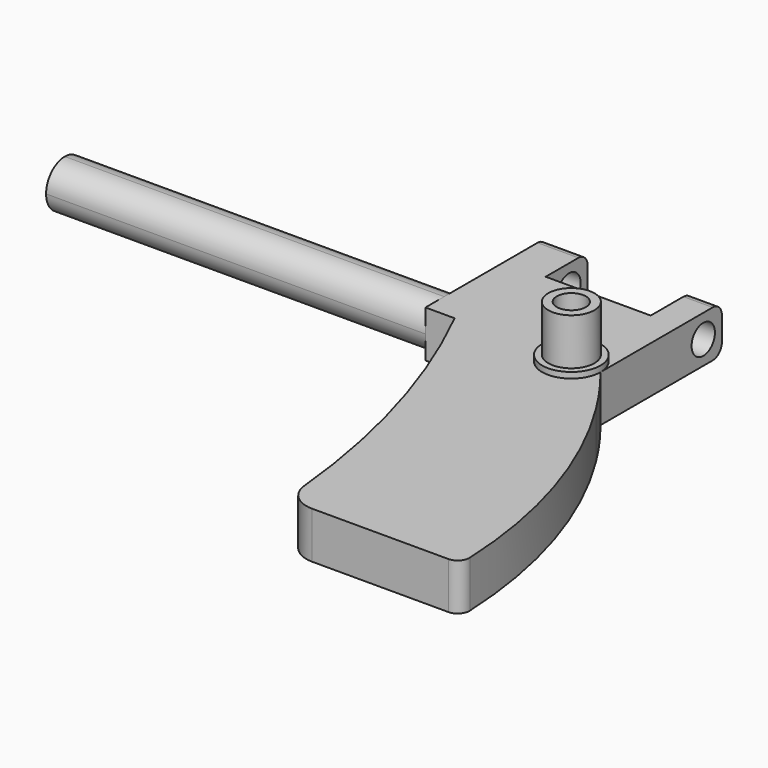
from build123d import *

# Parameters (mm, degrees)
F1_DEPTH  = 8
F3_DEPTH  = 50
F4_R      = 5
F5_DEPTH  = 9
F7_DEPTH  = 8
F9_DEPTH  = 25
F11_DEPTH = 65
F12_DEPTH = 1
F13_R     = 5
F14_R     = 2
F15_R     = 2


with BuildPart() as f1:
    # F0 (on Top) → F1 (new body)
    with BuildSketch(Plane.XY):
        Polygon((-15, 0), (0, 0), (10, 0), (10, 15), (10, 25), (5, 25), (5, 17), (-5, 17), (-13, 17), (-13, 25), (-20, 25), (-20, 0), align=None)
        with BuildLine():
            Line((10, 0), (0, 0))
            Line((0, 0), (-15, 0))
            ThreePointArc((-15, 0), (-4.7480671489, -26.7494728588), (0, -55))
            Line((0, -55), (10, -55))
            Line((10, -55), (10, 0))
        make_face()
        with BuildLine():
            ThreePointArc((16.1671913498, -8.6829612821), (13.2107261045, -4.2511845243), (10, 0))
            Line((10, 0), (10, -55))
            Line((10, -55), (30, -55))
            ThreePointArc((30, -55), (26.2150971911, -30.9062424985), (16.1671913498, -8.6829612821))
        make_face()
    extrude(amount=F1_DEPTH)

    # F2 (on face) → F3 (cut)
    with BuildSketch(Plane.YZ.offset(10)):
        with BuildLine():
            Line((22, 4), (24.5, 4))
            ThreePointArc((24.5, 4), (22, 6.5), (19.5, 4))
            Line((19.5, 4), (22, 4))
        make_face()
        with BuildLine():
            ThreePointArc((19.5, 4), (22, 1.5), (24.5, 4))
            Line((24.5, 4), (22, 4))
            Line((22, 4), (19.5, 4))
        make_face()
    extrude(amount=-F3_DEPTH, mode=Mode.SUBTRACT)

    # F4 (on face) → F5 (join)
    with BuildSketch(Plane(origin=(0, 0, 0), x_dir=(1, 0, 0), z_dir=(0, 0, -1))):
        with Locations((5, 0)):
            Circle(F4_R)
    extrude(amount=-F5_DEPTH)

    # F6 (on face) → F7 (join)
    with BuildSketch(Plane.XY.offset(9)):
        with BuildLine():
            ThreePointArc((1.05, 0), (5, -3.95), (8.95, 0))
            Line((8.95, 0), (1.05, 0))
        make_face()
        with BuildLine():
            Line((1.05, 0), (8.95, 0))
            ThreePointArc((8.95, 0), (5, 3.95), (1.05, 0))
        make_face()
    extrude(amount=F7_DEPTH)

    # F8 (on face) → F9 (cut)
    with BuildSketch(Plane.XY.offset(17)):
        with BuildLine():
            Line((2.5, 0), (7.5, 0))
            ThreePointArc((7.5, 0), (5, 2.5), (2.5, 0))
        make_face()
        with BuildLine():
            ThreePointArc((2.5, 0), (5, -2.5), (7.5, 0))
            Line((7.5, 0), (2.5, 0))
        make_face()
    extrude(amount=-F9_DEPTH, mode=Mode.SUBTRACT)

    # F10 (on face) → F11 (join)
    with BuildSketch(Plane(origin=(-20, 0, 0), x_dir=(0, -1, 0), z_dir=(-1, 0, 0))):
        with BuildLine():
            ThreePointArc((-4, 0), (-1.1715728753, 1.1715728753), (0, 4))
            ThreePointArc((0, 4), (-1.1715728753, 6.8284271247), (-4, 8))
            ThreePointArc((-4, 8), (-8, 4), (-4, 0))
        make_face()
    extrude(amount=F11_DEPTH)

    # F12 (add): faces of the model
    f12_faces = [f1.faces().sort_by_distance(p)[0] for p in [
        (-16.5, 25, 4),
        (7.5, 25, 4),
    ]]
    extrude(f12_faces, amount=F12_DEPTH)

    # F13
    f13_edges = [f1.edges().sort_by_distance(p)[0] for p in [
        (0, -55, 4),
    ]]
    fillet(f13_edges, radius=F13_R)

    # F14
    f14_edges = [f1.edges().sort_by_distance(p)[0] for p in [
        (30, -55, 4),
    ]]
    fillet(f14_edges, radius=F14_R)

    # F15
    f15_edges = [f1.edges().sort_by_distance(p)[0] for p in [
        (-16.5, 26, 8),
        (7.5, 26, 8),
        (7.5, 26, 0),
        (-16.5, 26, 0),
    ]]
    fillet(f15_edges, radius=F15_R)


solid = f1.part
